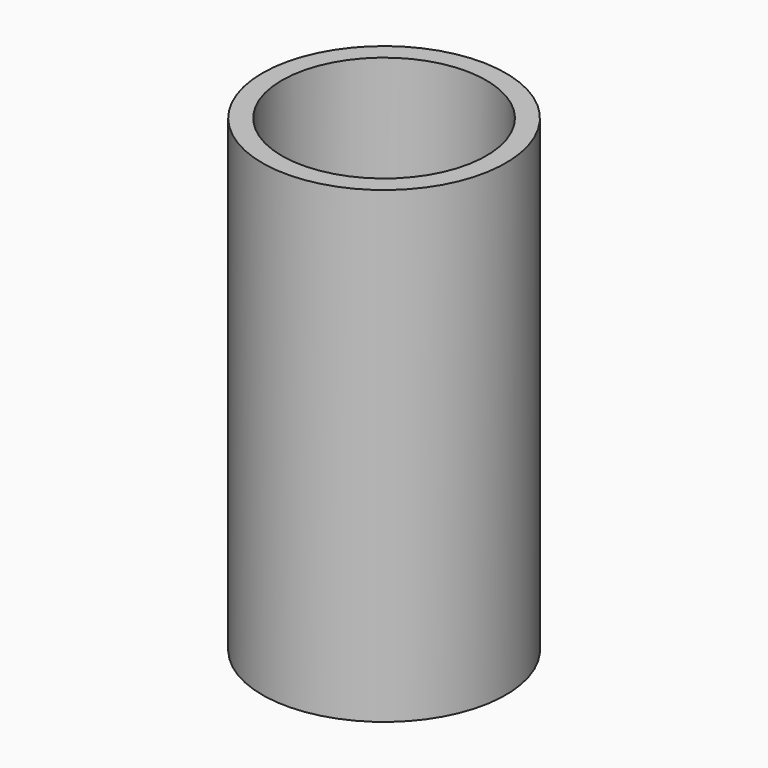
from build123d import *


with BuildPart() as f1:
    # F0 (on Front) → F1 (revolve)
    with BuildSketch(Plane.XZ):
        with BuildLine():
            Line((-16.637, 41.275), (-19.812, 41.275))
            Line((-19.812, 41.275), (-19.812, -34.925))
            Line((-19.812, -34.925), (-16.637, -34.925))
            Line((-16.637, -34.925), (-16.637, -1.5875))
            ThreePointArc((-16.637, -1.5875), (-16.172032, -0.464968), (-15.0495, 0))
            Line((-15.0495, 0), (-12, 0))
            Line((-12, 0), (-12, 3.175))
            Line((-12, 3.175), (-7, 3.175))
            Line((-7, 3.175), (-7, 6.35))
            Line((-7, 6.35), (-15.0495, 6.35))
            ThreePointArc((-15.0495, 6.35), (-16.172032, 6.814968), (-16.637, 7.9375))
            Line((-16.637, 7.9375), (-16.637, 41.275))
        make_face()
    revolve(axis=Axis((0, 0, -3.752202), (0, 0, -1)))


solid = f1.part
